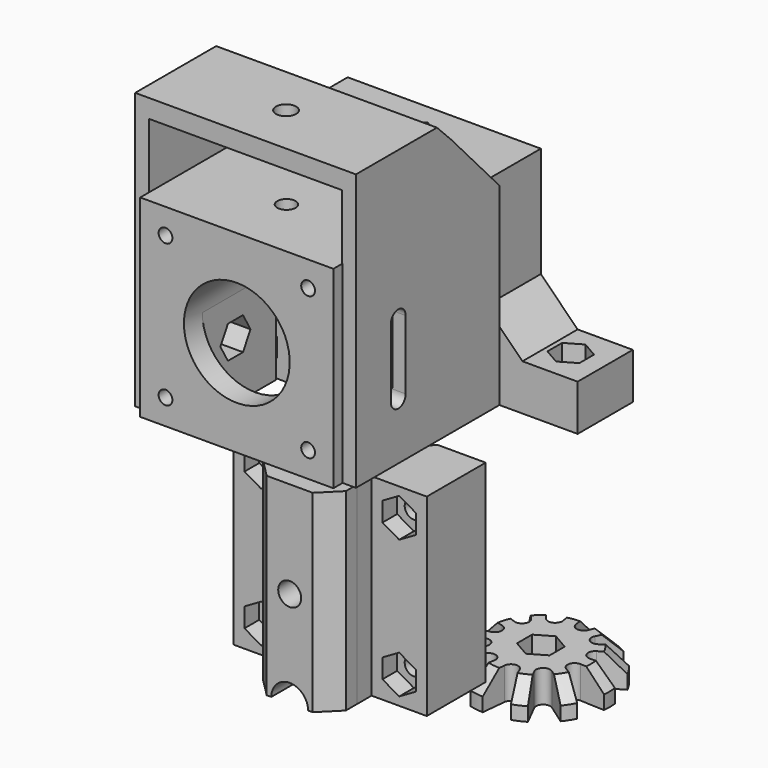
from build123d import *

# Parameters (mm, degrees)
PAD004_DEPTH            = 42
SKETCH031_W             = 20
SKETCH031_H             = 15
PAD014_DEPTH            = 10
SKETCH032_R             = 2
POCKET016_DEPTH         = 11
POCKET017_DEPTH         = 4
CHAMFER001_SIZE         = 8
SKETCH034_R             = 2
POCKET018_DEPTH         = 15
SKETCH070_W             = 42
SKETCH070_H             = 42
SKETCH070_R             = 11.5
SKETCH070_R_2           = 1.5
PAD027_DEPTH            = 3
SKETCH071_R             = 1.5
PAD028_DEPTH            = 20
SKETCH072_R             = 3.1
POCKET038_DEPTH         = 8
SKETCH073_R             = 2
POCKET039_DEPTH         = 12
POCKET040_DEPTH         = 36
SKETCH092_R             = 2
POCKET_DEPTH            = 50
POCKET074_DEPTH         = 5
POCKET075_DEPTH         = 5
POCKET075_FACE4_W       = 42
POCKET075_FACE4_H       = 42
POCKET075_FACE4_R       = 11.5
POCKET075_FACE4_R_2     = 1.5
PAD051_DEPTH            = 2
BODY008_PLACEMENT_ANGLE = 180
PAD040_DEPTH            = 42
SKETCH101_R             = 2
POCKET056_DEPTH         = 25
POCKET057_DEPTH         = 8
SKETCH103_W             = 42
SKETCH103_H             = 3
PAD041_DEPTH            = 14
PAD042_DEPTH            = 3
PAD043_DEPTH            = 3
SKETCH133_W             = 48
SKETCH133_H             = 26
SKETCH133_R             = 2.2
PAD050_DEPTH            = 4
CHAMFER007_SIZE         = 3.99
PAD044_DEPTH            = 42
SKETCH111_R             = 2
POCKET060_DEPTH         = 25
POCKET059_DEPTH         = 8
SKETCH115_R             = 2.5
SKETCH115_R_2           = 4
POCKET063_DEPTH         = 26
POCKET064_DEPTH         = 30
SKETCH138_W             = 12
SKETCH138_H             = 4
POCKET078_DEPTH         = 43
POCKET078_FACE13_R      = 2.5
PAD052_DEPTH            = 7
CHAMFER008_SIZE         = 4
SKETCH_R                = 15
SKETCH_R_2              = 2.1
PAD_DEPTH               = 7
CHAMFER_SIZE            = 4
POCKET076_DEPTH         = 4
POCKET077_DEPTH         = 9
POLARPATTERN_COUNT      = 11


with BuildPart() as top:
    # Sketch013 → Pad004 (new body)
    with BuildSketch(Plane.XY.offset(6)):
        Polygon((-42, 0), (0, 0), (0, -15), (-10.393398, -15), (-21, -4.393398), (-31.606602, -15), (-42, -15), align=None)
    extrude(amount=PAD004_DEPTH)

    # Sketch031 (on Face8 of Pad004) → Pad014 (join)
    with BuildSketch(Plane(origin=(0, 0, 6), x_dir=(1, 0, 0), z_dir=(0, 0, -1))):
        with Locations((10, 7.5)):
            Rectangle(SKETCH031_W, SKETCH031_H)
        with Locations((-52, 7.5)):
            Rectangle(SKETCH031_W, SKETCH031_H)
    extrude(amount=-PAD014_DEPTH)

    # Sketch032 (on Face10 of Pad014) → Pocket016 (cut)
    with BuildSketch(Plane.XY.offset(16)):
        with Locations((12.5, -7.5)):
            Circle(SKETCH032_R)
        with Locations((-54.5, -7.5)):
            Circle(SKETCH032_R)
    extrude(amount=-POCKET016_DEPTH, mode=Mode.SUBTRACT)

    # Sketch033 (on Face10 of Pocket016) → Pocket017 (cut)
    with BuildSketch(Plane.XY.offset(16)):
        Polygon((-54.5, -11.5), (-51.035898, -9.5), (-51.035898, -5.5), (-54.5, -3.5), (-57.964102, -5.5), (-57.964102, -9.5), align=None)
        Polygon((12.5, -11.5), (15.964102, -9.5), (15.964102, -5.5), (12.5, -3.5), (9.035898, -5.5), (9.035898, -9.5), align=None)
    extrude(amount=-POCKET017_DEPTH, mode=Mode.SUBTRACT)

    # Chamfer001
    chamfer001_edges = [top.edges().sort_by_distance(p)[0] for p in [
        (-42, -7.5, 16),
        (0, -7.5, 16),
    ]]
    chamfer(chamfer001_edges, length=CHAMFER001_SIZE)

    # Sketch034 (on Face1 of Chamfer001) → Pocket018 (cut)
    with BuildSketch(Plane(origin=(0, 0, 6), x_dir=(-1, 0, 0), z_dir=(0, 1, 0))):
        with Locations((6, 6)):
            Circle(SKETCH034_R)
        with Locations((36, 6)):
            Circle(SKETCH034_R)
        with Locations((6, 36)):
            Circle(SKETCH034_R)
        with Locations((36, 36)):
            Circle(SKETCH034_R)
    extrude(amount=-POCKET018_DEPTH, mode=Mode.SUBTRACT)


with BuildPart() as top_1:
    # Body002 placement: moved
    add(top.part.moved(Location((0, 0, 54))))


with BuildPart() as nema_bracket:
    # Sketch070 → Pad027 (new body)
    with BuildSketch(Plane.XZ):
        with Locations((-21, 21)):
            Rectangle(SKETCH070_W, SKETCH070_H)
        with Locations((-21, 21)):
            Circle(SKETCH070_R, mode=Mode.SUBTRACT)
        with Locations((-36.5, 36.5)):
            Circle(SKETCH070_R_2, mode=Mode.SUBTRACT)
        with Locations((-5.5, 36.5)):
            Circle(SKETCH070_R_2, mode=Mode.SUBTRACT)
        with Locations((-5.5, 5.5)):
            Circle(SKETCH070_R_2, mode=Mode.SUBTRACT)
        with Locations((-36.5, 5.5)):
            Circle(SKETCH070_R_2, mode=Mode.SUBTRACT)
    extrude(amount=PAD027_DEPTH)

    # Sketch071 (on Face11 of Pad027) → Pad028 (join)
    with BuildSketch(Plane.XZ.offset(3)):
        with BuildLine():
            Line((-9.5, 21), (-9.5, 0))
            Line((-9.5, 0), (0, 0))
            Line((0, 0), (0, 42))
            Line((0, 42), (-42, 42))
            Line((-42, 42), (-42, 0))
            Line((-42, 0), (-32.5, 0))
            Line((-32.5, 0), (-32.5, 21))
            ThreePointArc((-9.5, 21), (-21, 32.5), (-32.5, 21))
        make_face()
        with Locations((-36.5, 36.5)):
            Circle(SKETCH071_R, mode=Mode.SUBTRACT)
        with Locations((-5.5, 36.5)):
            Circle(SKETCH071_R, mode=Mode.SUBTRACT)
        with Locations((-5.5, 5.5)):
            Circle(SKETCH071_R, mode=Mode.SUBTRACT)
        with Locations((-36.5, 5.5)):
            Circle(SKETCH071_R, mode=Mode.SUBTRACT)
    extrude(amount=PAD028_DEPTH)

    # Sketch072 (on Face17 of Pad028) → Pocket038 (cut)
    with BuildSketch(Plane.XZ.offset(23)):
        with Locations((-5.5, 36.5)):
            Circle(SKETCH072_R)
        with Locations((-5.5, 5.5)):
            Circle(SKETCH072_R)
        with Locations((-36.5, 5.5)):
            Circle(SKETCH072_R)
        with Locations((-36.5, 36.5)):
            Circle(SKETCH072_R)
    extrude(amount=-POCKET038_DEPTH, mode=Mode.SUBTRACT)

    # Sketch073 (on Face19 of Pocket038) → Pocket039 (cut)
    with BuildSketch(Plane(origin=(0, 0, 42), x_dir=(-1, 0, 0), z_dir=(0, 0, 1))):
        with Locations((21, 11.5)):
            Circle(SKETCH073_R)
    extrude(amount=-POCKET039_DEPTH, mode=Mode.SUBTRACT)

    # Sketch074 → Pocket040 (cut)
    with BuildSketch(Plane.XY):
        Polygon((-17.535898, -13.5), (-17.535898, -9.5), (-21, -7.5), (-24.464102, -9.5), (-24.464102, -13.5), (-21, -15.5), align=None)
    extrude(amount=POCKET040_DEPTH, mode=Mode.SUBTRACT)

    # Sketch092 (on Face9 of Pocket040) → Pocket (cut)
    with BuildSketch(Plane(origin=(0, 0, 0), x_dir=(0, 0, 1), z_dir=(1, 0, 0))):
        with Locations((12.5, 12)):
            Circle(SKETCH092_R)
    extrude(amount=-POCKET_DEPTH, mode=Mode.SUBTRACT)

    # Sketch134 (on Face16 of Pocket) → Pocket074 (cut)
    with BuildSketch(Plane(origin=(-9.5, 0, 0), x_dir=(0, 0, -1), z_dir=(-1, 0, 0))):
        Polygon((-8.949296, 9.95), (-8.949296, 14.05), (-12.5, 16.1), (-16.050704, 14.05), (-16.050704, 9.95), (-12.5, 7.9), align=None)
    extrude(amount=-POCKET074_DEPTH, mode=Mode.SUBTRACT)

    # Sketch135 (on Face18 of Pocket074) → Pocket075 (cut)
    with BuildSketch(Plane(origin=(-32.5, 0, 0), x_dir=(0, 0, 1), z_dir=(1, 0, 0))):
        Polygon((16.050704, 9.95), (16.050704, 14.05), (12.5, 16.1), (8.949296, 14.05), (8.949296, 9.95), (12.5, 7.9), align=None)
    extrude(amount=-POCKET075_DEPTH, mode=Mode.SUBTRACT)

    # Pocket075 Face4 → Pad051 (add)
    with BuildSketch(Plane(origin=(-21, 0, 21), x_dir=(1, 0, 0), z_dir=(0, 1, 0))):
        Rectangle(POCKET075_FACE4_W, POCKET075_FACE4_H)
        Circle(POCKET075_FACE4_R, mode=Mode.SUBTRACT)
        with Locations((-15.5, 15.5)):
            Circle(POCKET075_FACE4_R_2, mode=Mode.SUBTRACT)
        with Locations((15.5, 15.5)):
            Circle(POCKET075_FACE4_R_2, mode=Mode.SUBTRACT)
        with Locations((15.5, -15.5)):
            Circle(POCKET075_FACE4_R_2, mode=Mode.SUBTRACT)
        with Locations((-15.5, -15.5)):
            Circle(POCKET075_FACE4_R_2, mode=Mode.SUBTRACT)
    extrude(amount=PAD051_DEPTH)


with BuildPart() as nema_bracket_1:
    # Body008 placement: moved
    add(nema_bracket.part.moved(Location((-41.9, -54.5, 60))).rotate(Axis((-41.9, -54.5, 60), (0, 0, 1)), BODY008_PLACEMENT_ANGLE))


with BuildPart() as body012:
    # Sketch100 → Pad040 (new body)
    with BuildSketch(Plane.XY):
        Polygon((-10.393398, -15), (-21, -25.606602), (-31.606602, -15), (-42, -15), (-42, -31), (0, -31), (0, -15), align=None)
    extrude(amount=PAD040_DEPTH)

    # Sketch101 (on Face5 of Pad040) → Pocket056 (cut)
    with BuildSketch(Plane.XZ.offset(31)):
        with Locations((-36, 36)):
            Circle(SKETCH101_R)
        with Locations((-6, 36)):
            Circle(SKETCH101_R)
        with Locations((-36, 6)):
            Circle(SKETCH101_R)
        with Locations((-6, 6)):
            Circle(SKETCH101_R)
    extrude(amount=-POCKET056_DEPTH, mode=Mode.SUBTRACT)

    # Sketch102 (on Face11 of Pocket056) → Pocket057 (cut)
    with BuildSketch(Plane.XZ.offset(31)):
        Polygon((-36, 32), (-32.535898, 34), (-32.535898, 38), (-36, 40), (-39.464102, 38), (-39.464102, 34), align=None)
        Polygon((-9.464102, 34), (-6, 32), (-2.535898, 34), (-2.535898, 38), (-6, 40), (-9.464102, 38), align=None)
        Polygon((-39.464102, 4), (-36, 2), (-32.535898, 4), (-32.535898, 8), (-36, 10), (-39.464102, 8), align=None)
        Polygon((-6, 2), (-2.535898, 4), (-2.535898, 8), (-6, 10), (-9.464102, 8), (-9.464102, 4), align=None)
    extrude(amount=-POCKET057_DEPTH, mode=Mode.SUBTRACT)

    # Sketch103 (on Face5 of Pocket057) → Pad041 (join)
    with BuildSketch(Plane.XY.offset(42)):
        with Locations((-21, -29.5)):
            Rectangle(SKETCH103_W, SKETCH103_H)
    extrude(amount=PAD041_DEPTH)

    # Sketch104 (on Face6 of Pad041) → Pad042 (join)
    with BuildSketch(Plane.YZ):
        Polygon((-15, 0), (-15, 42), (-28, 56), (-54, 56), (-54, 0), align=None)
        with BuildLine():
            ThreePointArc((-44.5, 12.5), (-42.5, 10.5), (-40.5, 12.5))
            Line((-40.5, 12.5), (-40.5, 27.5))
            ThreePointArc((-40.5, 27.5), (-42.5, 29.5), (-44.5, 27.5))
            Line((-44.5, 12.5), (-44.5, 27.5))
        make_face(mode=Mode.SUBTRACT)
    extrude(amount=PAD042_DEPTH)

    # Sketch105 (on Face10 of Pad042) → Pad043 (join)
    with BuildSketch(Plane(origin=(-42, 0, 0), x_dir=(0, -1, 0), z_dir=(-1, 0, 0))):
        Polygon((15, 0), (15, 42), (28, 56), (54, 56), (54, 0), align=None)
        with BuildLine():
            ThreePointArc((40.5, 12.5), (42.5, 10.5), (44.5, 12.5))
            Line((44.5, 12.5), (44.5, 27.5))
            ThreePointArc((44.5, 27.5), (42.5, 29.5), (40.5, 27.5))
            Line((40.5, 12.5), (40.5, 27.5))
        make_face(mode=Mode.SUBTRACT)
    extrude(amount=PAD043_DEPTH)

    # Sketch133 (on Face55 of Pad043) → Pad050 (join)
    with BuildSketch(Plane.XY.offset(56)):
        with Locations((-21, -41)):
            Rectangle(SKETCH133_W, SKETCH133_H)
        with Locations((-21, -43)):
            Circle(SKETCH133_R, mode=Mode.SUBTRACT)
    extrude(amount=PAD050_DEPTH)

    # Chamfer007
    chamfer007_edges = [body012.edges().sort_by_distance(p)[0] for p in [
        (-21, -28, 60),
    ]]
    chamfer(chamfer007_edges, length=CHAMFER007_SIZE)


with BuildPart() as body012_1:
    # Body012 placement: moved
    add(body012.part.moved(Location((0, 0, 60))))


with BuildPart() as bottom:
    # Sketch108 → Pad044 (new body)
    with BuildSketch(Plane.XY):
        Polygon((-10.393398, -15), (-21, -25.606602), (-31.606602, -15), (-42, -15), (-42, -35), (0, -35), (0, -15), align=None)
    extrude(amount=PAD044_DEPTH)

    # Sketch111 (on Face5 of Pad044) → Pocket060 (cut)
    with BuildSketch(Plane.XZ.offset(35)):
        with Locations((-36, 36)):
            Circle(SKETCH111_R)
        with Locations((-6, 36)):
            Circle(SKETCH111_R)
        with Locations((-36, 6)):
            Circle(SKETCH111_R)
        with Locations((-6, 6)):
            Circle(SKETCH111_R)
    extrude(amount=-POCKET060_DEPTH, mode=Mode.SUBTRACT)

    # Sketch109 (on Face11 of Pocket060) → Pocket059 (cut)
    with BuildSketch(Plane.XZ.offset(35)):
        Polygon((-36, 31.8), (-32.362693, 33.9), (-32.362693, 38.1), (-36, 40.2), (-39.637307, 38.1), (-39.637307, 33.9), align=None)
        Polygon((-9.637307, 33.9), (-6, 31.8), (-2.362693, 33.9), (-2.362693, 38.1), (-6, 40.2), (-9.637307, 38.1), align=None)
        Polygon((-39.637307, 3.9), (-36, 1.8), (-32.362693, 3.9), (-32.362693, 8.1), (-36, 10.2), (-39.637307, 8.1), align=None)
        Polygon((-6, 1.8), (-2.362693, 3.9), (-2.362693, 8.1), (-6, 10.2), (-9.637307, 8.1), (-9.637307, 3.9), align=None)
    extrude(amount=-POCKET059_DEPTH, mode=Mode.SUBTRACT)

    # Sketch115 → Pocket063 (cut)
    with BuildSketch(Plane.XZ.offset(39)):
        with Locations((-21, 21)):
            Circle(SKETCH115_R)
        with Locations((-21, 0)):
            Circle(SKETCH115_R_2)
    extrude(amount=-POCKET063_DEPTH, mode=Mode.SUBTRACT)

    # Sketch116 → Pocket064 (cut)
    with BuildSketch(Plane.XZ):
        Polygon((-17.102886, 18.75), (-17.102886, 23.25), (-21, 25.5), (-24.897114, 23.25), (-24.897114, 18.75), (-21, 16.5), align=None)
    extrude(amount=POCKET064_DEPTH, mode=Mode.SUBTRACT)

    # Sketch138 (on Face12 of Pocket064) → Pocket078 (cut)
    with BuildSketch(Plane(origin=(0, 0, 0), x_dir=(1, 0, 0), z_dir=(0, 0, -1))):
        with Locations((-36, 33)):
            Rectangle(SKETCH138_W, SKETCH138_H)
        with Locations((-6, 33)):
            Rectangle(SKETCH138_W, SKETCH138_H)
    extrude(amount=-POCKET078_DEPTH, mode=Mode.SUBTRACT)

    # Pocket078 Face13 → Pad052 (add)
    with BuildSketch(Plane(origin=(-21, -35, 21.682085), x_dir=(-1, 0, 0), z_dir=(0, -1, 0))):
        with BuildLine():
            Line((9, 21.682085), (4, 21.682085))
            ThreePointArc((4, 21.682085), (0, 17.682085), (-4, 21.682085))
            Line((-4, 21.682085), (-9, 21.682085))
            Line((-9, 21.682085), (-9, -20.317915))
            Line((-9, -20.317915), (9, -20.317915))
            Line((9, -20.317915), (9, 21.682085))
        make_face()
        with Locations((0, 0.682085)):
            Circle(POCKET078_FACE13_R, mode=Mode.SUBTRACT)
    extrude(amount=PAD052_DEPTH)

    # Chamfer008
    chamfer008_edges = [bottom.edges().sort_by_distance(p)[0] for p in [
        (-12, -42, 21),
        (-30, -42, 21),
    ]]
    chamfer(chamfer008_edges, length=CHAMFER008_SIZE)


with BuildPart() as bottom_1:
    # Body013 placement: moved
    add(bottom.part.moved(Location((0, 0, 6))))


with BuildPart() as body:
    # Sketch → Pad (new body)
    with BuildSketch(Plane.XY):
        Circle(SKETCH_R)
        Circle(SKETCH_R_2, mode=Mode.SUBTRACT)
    extrude(amount=PAD_DEPTH)

    # Chamfer
    chamfer_edges = [body.edges().sort_by_distance(p)[0] for p in [
        (-15, 0, 7),
    ]]
    chamfer(chamfer_edges, length=CHAMFER_SIZE)

    # Sketch136 (on Face4 of Chamfer) → Pocket076 (cut)
    with BuildSketch(Plane.XY.offset(7)):
        Polygon((3.550704, -2.05), (3.550704, 2.05), (0, 4.1), (-3.550704, 2.05), (-3.550704, -2.05), (0, -4.1), align=None)
    extrude(amount=-POCKET076_DEPTH, mode=Mode.SUBTRACT)

    # Sketch137 (on Face4 of Pocket076) → Pocket077 (cut)
    with BuildSketch(Plane.XY.offset(7)):
        with BuildLine():
            ThreePointArc((-9.625, -1.5), (-8.453835, 0), (-9.625, 1.5))
            Line((-9.625, 1.5), (-19.625, 4))
            Line((-19.625, 4), (-19.625, -4))
            Line((-9.625, -1.5), (-19.625, -4))
        make_face()
    pocket077 = extrude(amount=-POCKET077_DEPTH, mode=Mode.SUBTRACT)

    # PolarPattern: Pocket077 ×11 about axis
    polarpattern_axis = Axis((0, 0, 0), (0, 0, 1))
    for i in range(1, POLARPATTERN_COUNT):
        add(pocket077.rotate(polarpattern_axis, i * 360 / POLARPATTERN_COUNT), mode=Mode.SUBTRACT)


solid = Compound([top_1.part, nema_bracket_1.part, body012_1.part, bottom_1.part, body.part])
